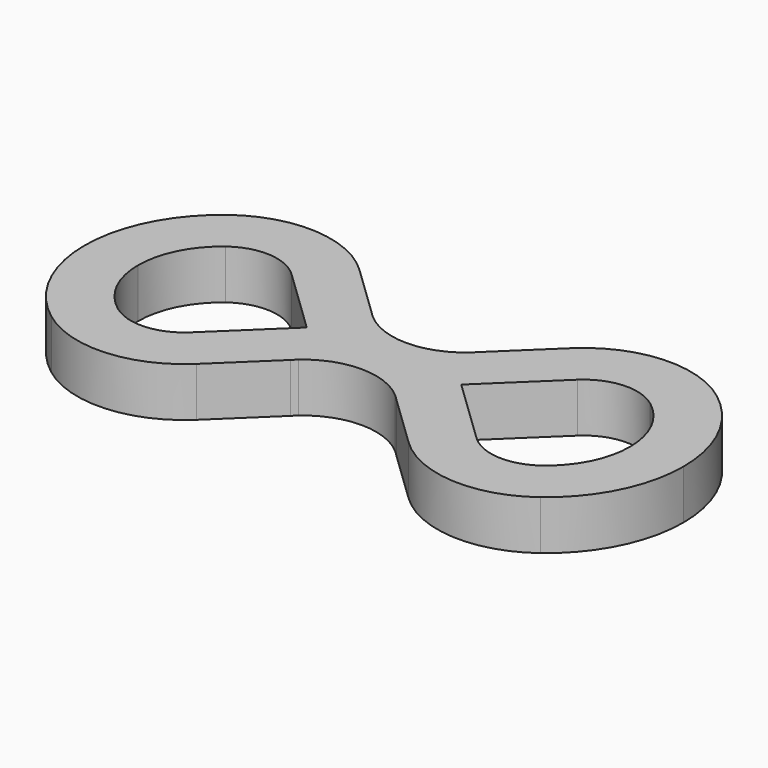
from build123d import *

# Parameters (mm, degrees)
F1_DEPTH = 5.842


with BuildPart() as f1:
    # F0 (on Top) → F1 (new body)
    with BuildSketch(Plane.XY):
        with BuildLine():
            Line((2.88307, 6.035941), (-3.399167, 12.071882))
            ThreePointArc((-3.399167, 12.071882), (-11.44211, 15.59138), (-19.846322, 13.052679))
            ThreePointArc((-19.846322, 13.052679), (-24.634033, 7.291609), (-26.35, 0))
            ThreePointArc((-26.35, 0), (-24.634033, -7.291609), (-19.846322, -13.052679))
            ThreePointArc((-19.846322, -13.052679), (-11.44211, -15.59138), (-3.399167, -12.071882))
            Line((-3.399167, -12.071882), (2.88307, -6.035941))
            ThreePointArc((2.88307, -6.035941), (3.15464, -5.763177), (3.438042, -5.502726))
            ThreePointArc((3.438042, -5.502726), (9.165307, -3.34358), (14.892571, -5.502726))
            ThreePointArc((14.892571, -5.502726), (15.175973, -5.763177), (15.447543, -6.035941))
            Line((15.447543, -6.035941), (21.72978, -12.071882))
            ThreePointArc((21.72978, -12.071882), (29.772723, -15.59138), (38.176936, -13.052679))
            ThreePointArc((38.176936, -13.052679), (42.964647, -7.291609), (44.680613, 0))
            ThreePointArc((44.680613, 0), (42.964647, 7.291609), (38.176936, 13.052679))
            ThreePointArc((38.176936, 13.052679), (29.772723, 15.59138), (21.72978, 12.071882))
            Line((21.72978, 12.071882), (15.447543, 6.035941))
            ThreePointArc((15.447543, 6.035941), (15.175973, 5.763177), (14.892571, 5.502726))
            ThreePointArc((14.892571, 5.502726), (9.165307, 3.34358), (3.438042, 5.502726))
            ThreePointArc((3.438042, 5.502726), (3.15464, 5.763177), (2.88307, 6.035941))
        make_face()
        with BuildLine():
            ThreePointArc((-20, 0), (-18.950479, 4.4597), (-16.022216, 7.98329))
            ThreePointArc((-16.022216, 7.98329), (-11.820109, 9.25264), (-7.798638, 7.492892))
            Line((-7.798638, 7.492892), (0, 0))
            Line((0, 0), (-7.798638, -7.492892))
            ThreePointArc((-7.798638, -7.492892), (-11.820109, -9.25264), (-16.022216, -7.98329))
            ThreePointArc((-16.022216, -7.98329), (-18.950479, -4.4597), (-20, 0))
        make_face(mode=Mode.SUBTRACT)
        with BuildLine():
            ThreePointArc((34.352829, -7.98329), (30.150722, -9.25264), (26.129251, -7.492892))
            Line((26.129251, -7.492892), (18.330613, 0))
            Line((18.330613, 0), (26.129251, 7.492892))
            ThreePointArc((26.129251, 7.492892), (30.150722, 9.25264), (34.352829, 7.98329))
            ThreePointArc((34.352829, 7.98329), (37.281092, 4.4597), (38.330613, 0))
            ThreePointArc((38.330613, 0), (37.281092, -4.4597), (34.352829, -7.98329))
        make_face(mode=Mode.SUBTRACT)
    extrude(amount=F1_DEPTH)


solid = f1.part
